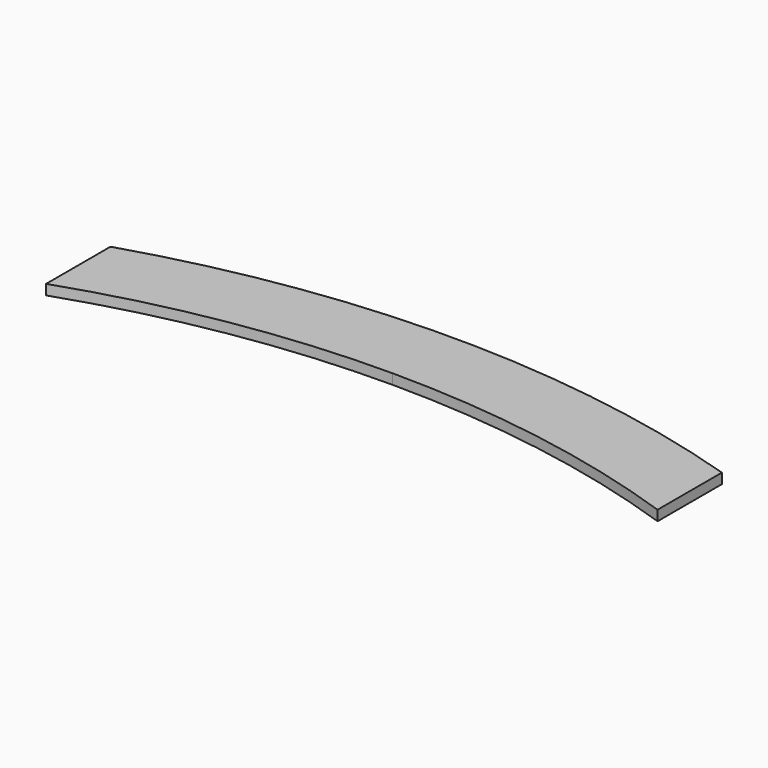
from build123d import *

# Parameters (mm, degrees)
F0_R     = 200
F1_DEPTH = 2
F3_DEPTH = 25


with BuildPart() as f1:
    # F0 (on Top) → F1 (new body)
    with BuildSketch(Plane.XY):
        Circle(F0_R)
    extrude(amount=F1_DEPTH)

    # F2 (on face) → F3 (cut)
    with BuildSketch(Plane.XY.offset(2)):
        with BuildLine():
            ThreePointArc((-60, 175), (-107.529066, -150.540692), (185, 0))
            ThreePointArc((185, 0), (150.540692, 107.529066), (60, 175))
            ThreePointArc((60, 175), (30.413813, 182.482876), (0, 185))
            ThreePointArc((0, 185), (-30.413813, 182.482876), (-60, 175))
        make_face()
        with BuildLine():
            ThreePointArc((60, 175), (150.540692, 107.529066), (185, 0))
            ThreePointArc((185, 0), (-107.529066, -150.540692), (-60, 175))
            Line((-60, 175), (-60, 190.78784))
            ThreePointArc((-60, 190.78784), (-118.321596, -161.245155), (200, 0))
            ThreePointArc((200, 0), (161.245155, 118.321596), (60, 190.78784))
            Line((60, 190.78784), (60, 175))
        make_face()
    extrude(amount=-F3_DEPTH, mode=Mode.SUBTRACT)


solid = f1.part
